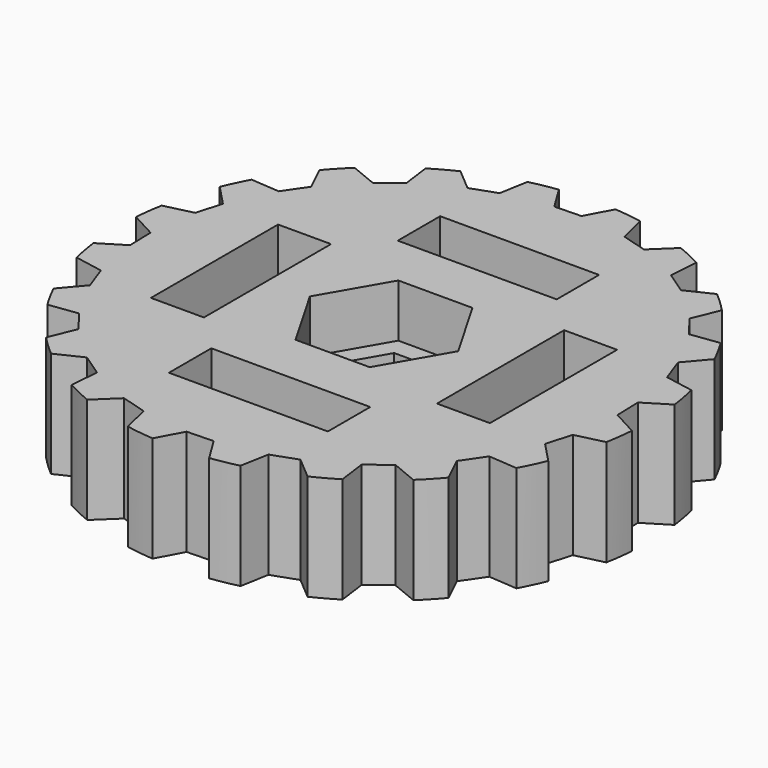
from build123d import *

# Parameters (mm, degrees)
SKETCH_R           = 50
PAD_DEPTH          = 20
POCKET_DEPTH       = 20
POLARPATTERN_COUNT = 20
SKETCH003_W        = 30
SKETCH003_H        = 10
SKETCH003_W_2      = 10
SKETCH003_H_2      = 30
POCKET001_DEPTH    = 20
PAD001_DEPTH       = 10


with BuildPart() as nutpad:
    # Sketch → Pad (new body)
    with BuildSketch(Plane.XY):
        Circle(SKETCH_R)
    extrude(amount=PAD_DEPTH)

    # Sketch002 → Pocket (cut)
    with BuildSketch(Plane.XY.offset(20)):
        with BuildLine():
            ThreePointArc((48.5932290893, 11.7770151853), (47.0953000791, 16.7938295353), (45.0809764245, 21.6265014419))
            Line((45.0809764245, 21.6265014419), (41.5460785944, 17.4692115857))
            Line((41.5460785944, 17.4692115857), (43.2254615479, 12.7596815778))
            Line((48.5932290893, 11.7770151853), (43.2254615479, 12.7596815778))
        make_face()
    pocket = extrude(amount=-POCKET_DEPTH, mode=Mode.SUBTRACT)

    # PolarPattern: Pocket ×20 about axis
    polarpattern_axis = Axis((0, 0, 20), (0, 0, 1))
    for i in range(1, POLARPATTERN_COUNT):
        add(pocket.rotate(polarpattern_axis, i * 360 / POLARPATTERN_COUNT), mode=Mode.SUBTRACT)

    # Sketch003 → Pocket001 (cut)
    with BuildSketch(Plane.XY.offset(20)):
        Polygon((-7, 12.124355653), (7, 12.124355653), (14, 0), (7, -12.124355653), (-7, -12.124355653), (-14, 0), align=None)
        with Locations((0, -27)):
            Rectangle(SKETCH003_W, SKETCH003_H)
        with Locations((0, 27)):
            Rectangle(SKETCH003_W, SKETCH003_H)
        with Locations((-27, 0)):
            Rectangle(SKETCH003_W_2, SKETCH003_H_2)
        with Locations((27, 0)):
            Rectangle(SKETCH003_W_2, SKETCH003_H_2)
    extrude(amount=-POCKET001_DEPTH, mode=Mode.SUBTRACT)


with BuildPart() as obj1:
    # Sketch004 → Pad001 (new body)
    with BuildSketch(Plane.XY):
        Polygon((-7, 12.124355653), (7, 12.124355653), (14, 0), (7, -12.124355653), (-7, -12.124355653), (-14, 0), align=None)
        Polygon((-5, 8.6602540378), (5, 8.6602540378), (10, 0), (5, -8.6602540378), (-5, -8.6602540378), (-10, 0), align=None, mode=Mode.SUBTRACT)
    extrude(amount=PAD001_DEPTH)


solid = Compound([nutpad.part, obj1.part])
